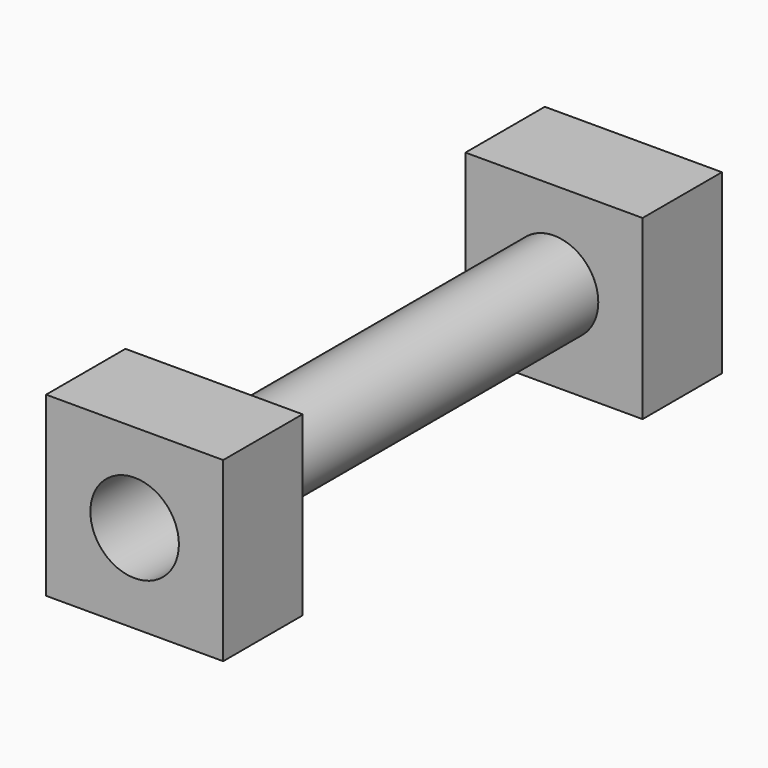
from build123d import *

# Parameters (mm, degrees)
F0_R     = 3.175
F1_DEPTH = 30.48
F3_W     = 12.7
F3_H     = 12.7
F3_R     = 3.175
F4_DEPTH = 7.112
F5_W     = 12.7
F5_H     = 12.7
F5_R     = 3.175
F6_DEPTH = 7.112
F7_R     = 2.431195
F8_DEPTH = 43.688


with BuildPart() as f1:
    # F0 (on Front) → F1 (new body)
    with BuildSketch(Plane.XZ):
        Circle(F0_R)
    extrude(amount=F1_DEPTH)

    # F7 (on face) → F8 (cut)
    with BuildSketch(Plane.XZ.offset(30.48)):
        Circle(F7_R)
    extrude(amount=-F8_DEPTH, mode=Mode.SUBTRACT)


with BuildPart() as f4:
    # F3 (on face) → F4 (new body)
    with BuildSketch(Plane.XZ.offset(30.48)):
        Rectangle(F3_W, F3_H)
        Circle(F3_R, mode=Mode.SUBTRACT)
    extrude(amount=F4_DEPTH)


with BuildPart() as f6:
    # F5 (on face) → F6 (new body)
    with BuildSketch(Plane(origin=(0, 0, 0), x_dir=(-1, 0, 0), z_dir=(0, 1, 0))):
        Rectangle(F5_W, F5_H)
        Circle(F5_R, mode=Mode.SUBTRACT)
    extrude(amount=F6_DEPTH)


solid = Compound([f1.part, f4.part, f6.part])
